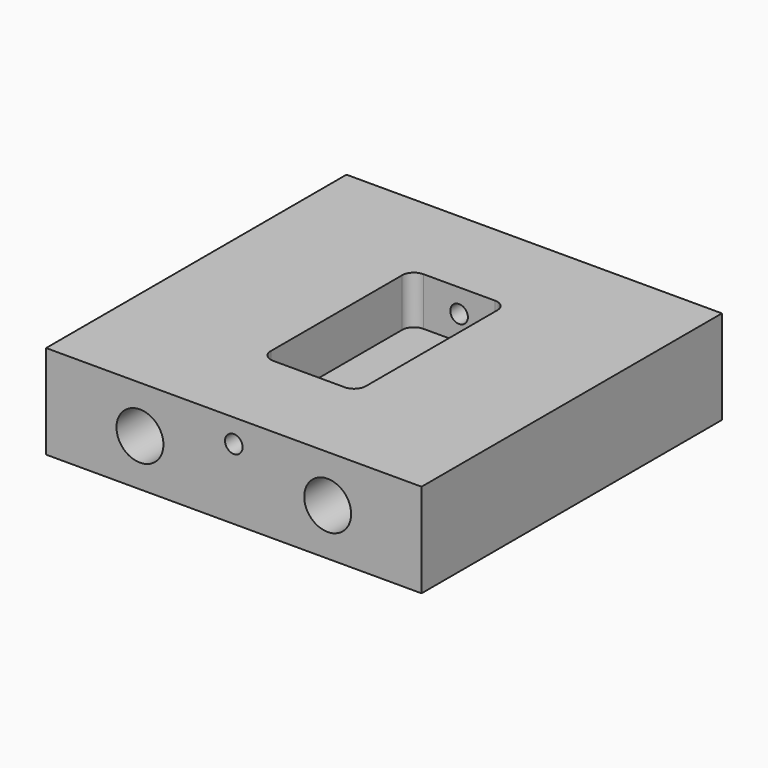
from build123d import *

# Parameters (mm, degrees)
F0_R     = 12.7
F0_R_2   = 4.7625
F1_DEPTH = 101.6
F3_DEPTH = 26.035


with BuildPart() as f1:
    # F0 (on Front) → F1 (new body, symmetric)
    with BuildSketch(Plane.XZ):
        Polygon((-101.6, 25.4), (-101.6, -25.4), (101.6, -25.4), (101.6, 25.4), (26.035, 25.4), (-26.035, 25.4), align=None)
        with Locations((-50.8, 0)):
            Circle(F0_R, mode=Mode.SUBTRACT)
        with Locations((50.8, 0)):
            Circle(F0_R, mode=Mode.SUBTRACT)
        with Locations((0, 12.7)):
            Circle(F0_R_2, mode=Mode.SUBTRACT)
    extrude(amount=F1_DEPTH, both=True)

    # F2 (on face) → F3 (cut)
    with BuildSketch(Plane.XY.offset(25.4)):
        with BuildLine():
            Line((-19.3675, -50.8), (19.3675, -50.8))
            ThreePointArc((19.3675, -50.8), (23.857628, -48.940128), (25.7175, -44.45))
            Line((25.7175, -44.45), (25.7175, 44.45))
            ThreePointArc((25.7175, 44.45), (23.857628, 48.940128), (19.3675, 50.8))
            Line((19.3675, 50.8), (-19.3675, 50.8))
            ThreePointArc((-19.3675, 50.8), (-23.857628, 48.940128), (-25.7175, 44.45))
            Line((-25.7175, 44.45), (-25.7175, -44.45))
            ThreePointArc((-25.7175, -44.45), (-23.857628, -48.940128), (-19.3675, -50.8))
        make_face()
    extrude(amount=-F3_DEPTH, mode=Mode.SUBTRACT)


solid = f1.part
